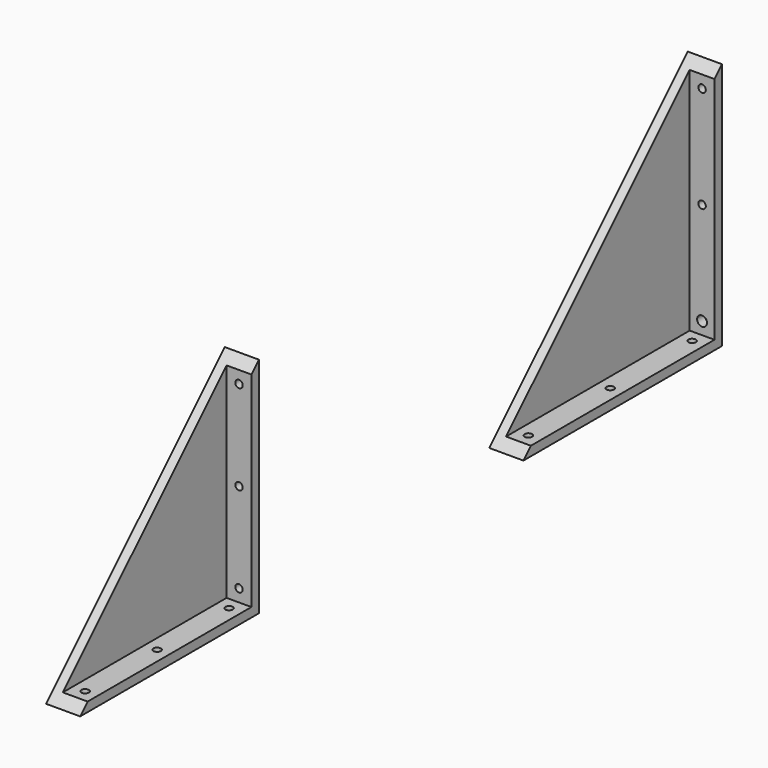
from build123d import *

# Parameters (mm, degrees)
F1_DEPTH  = 4.7625
F3_DEPTH  = 12.7
F4_R      = 1.905
F5_DEPTH  = 4.7625
F6_R      = 1.905
F6_R_2    = 2.54
F7_DEPTH  = 4.7625
F9_DEPTH  = 4.7625
F11_DEPTH = 12.7
F12_R     = 1.905
F13_DEPTH = 4.7625
F14_R     = 1.905
F15_DEPTH = 4.7625


with BuildPart() as f1:
    # F0 (on Right) → F1 (new body)
    with BuildSketch(Plane.YZ):
        Polygon((127, 127), (0, 0), (127, 0), align=None)
    extrude(amount=F1_DEPTH)

    # F2 (on face) → F3 (join)
    with BuildSketch(Plane.YZ.offset(4.7625)):
        Polygon((122.2375, 4.7625), (127, 4.7625), (127, 127), (122.2375, 122.2375), align=None)
        Polygon((127, 0), (127, 4.7625), (122.2375, 4.7625), (4.7625, 4.7625), (0, 0), align=None)
    extrude(amount=F3_DEPTH)

    # F4 (on face) → F5 (cut, through all)
    with BuildSketch(Plane.XY.offset(4.7625)):
        with Locations((11.1125, 11.1125)):
            Circle(F4_R)
        with Locations((11.1125, 115.8875)):
            Circle(F4_R)
        with Locations((11.1125, 63.5)):
            Circle(F4_R)
    extrude(amount=-F5_DEPTH, mode=Mode.SUBTRACT)

    # F6 (on face) → F7 (cut, through all)
    with BuildSketch(Plane.XZ.offset(-122.2375)):
        with Locations((11.1125, 115.8875)):
            Circle(F6_R)
        with Locations((11.1125, 11.1125)):
            Circle(F6_R_2)
        with Locations((11.1125, 63.5)):
            Circle(F6_R)
    extrude(amount=-F7_DEPTH, mode=Mode.SUBTRACT)


with BuildPart() as f9:
    # F8 (on Right) → F9 (new body)
    with BuildSketch(Plane.YZ):
        Polygon((-169.277602, 114.3), (-283.577602, 0), (-169.277602, 0), align=None)
    extrude(amount=F9_DEPTH)

    # F10 (on face) → F11 (join)
    with BuildSketch(Plane.YZ.offset(4.7625)):
        Polygon((-174.040102, 109.5375), (-174.040102, 4.7625), (-169.277602, 4.7625), (-169.277602, 114.3), align=None)
        Polygon((-174.040102, 4.7625), (-278.815102, 4.7625), (-283.577602, 0), (-169.277602, 0), (-169.277602, 4.7625), align=None)
    extrude(amount=F11_DEPTH)

    # F12 (on face) → F13 (cut, through all)
    with BuildSketch(Plane.XY.offset(4.7625)):
        with Locations((11.1125, -272.465102)):
            Circle(F12_R)
        with Locations((11.1125, -226.427602)):
            Circle(F12_R)
        with Locations((11.1125, -180.390102)):
            Circle(F12_R)
    extrude(amount=-F13_DEPTH, mode=Mode.SUBTRACT)

    # F14 (on face) → F15 (cut, through all)
    with BuildSketch(Plane.XZ.offset(174.040102)):
        with Locations((11.1125, 103.1875)):
            Circle(F14_R)
        with Locations((11.1125, 11.1125)):
            Circle(F14_R)
        with Locations((11.1125, 57.15)):
            Circle(F14_R)
    extrude(amount=-F15_DEPTH, mode=Mode.SUBTRACT)


solid = Compound([f1.part, f9.part])
